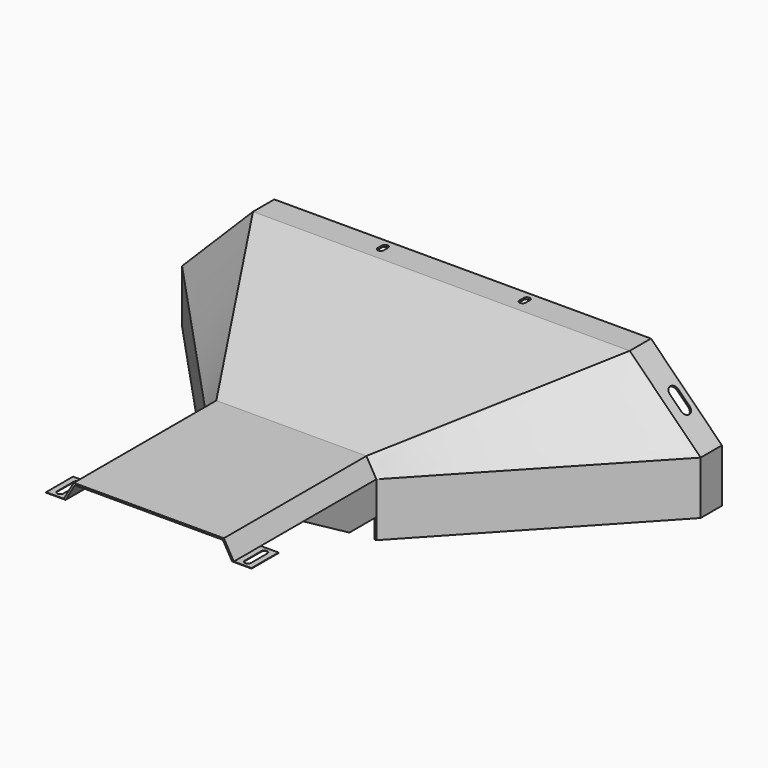
from build123d import *

# Parameters (mm, degrees)
F1_DEPTH  = 201
F4_DEPTH  = 30
F7_DEPTH  = 388.393305
F9_DEPTH  = 20
F11_DEPTH = 20
F13_DEPTH = 60.536898
F15_DEPTH = 60.536898
F17_DEPTH = 140.001
F19_DEPTH = 456.084874
F21_DEPTH = 456.084874


with BuildPart() as f1:
    # F0 (on Front) → F1 (new body)
    with BuildSketch(Plane.XZ):
        Polygon((-83.5, 78), (0, 78), (83.5, 78), (93.892305, 60), (93.892305, 0), (95.892305, 0), (95.892305, 60.535898), (84.654701, 80), (0, 80), (-84.654701, 80), (-95.892305, 60.535898), (-95.892305, 0), (-93.892305, 0), (-93.892305, 60), align=None)
    extrude(amount=-F1_DEPTH)



with BuildPart() as f4:
    # F3 (on offset) → F4 (new body)
    with BuildSketch(Plane.XZ.offset(-412.5)):
        Polygon((212.5, 140), (0, 140), (-212.5, 140), (-292.5, 60), (-292.5, 0), (-290.5, 0), (-290.5, 59.171573), (-211.671573, 138), (0, 138), (211.671573, 138), (290.5, 59.171573), (290.5, 0), (292.5, 0), (292.5, 60), align=None)
    extrude(amount=-F4_DEPTH)


with BuildPart() as f1_1:
    add(f1.part)

    add(f4.part)  # F5 merges F4
    # F4_face (on face) → F5 section 0
    with BuildSketch(Plane(origin=(0, 412.5, 110.440506), x_dir=(1, 0, 0), z_dir=(0, -1, 0))):
        Polygon((211.671573, 27.559494), (290.5, -51.268933), (290.5, -110.440506), (292.5, -110.440506), (292.5, -50.440506), (212.5, 29.559494), (-212.5, 29.559494), (-292.5, -50.440506), (-292.5, -110.440506), (-290.5, -110.440506), (-290.5, -51.268933), (-211.671573, 27.559494), align=None)
    # F1_face (on face) → F5 section 1
    with BuildSketch(Plane(origin=(0, 201, 60.03778), x_dir=(1, 0, 0), z_dir=(0, 1, 0))):
        Polygon((-95.892305, 60.03778), (-95.892305, -0.498118), (-84.654701, -19.96222), (84.654701, -19.96222), (95.892305, -0.498118), (95.892305, 60.03778), (93.892305, 60.03778), (93.892305, 0.03778), (83.5, -17.96222), (-83.5, -17.96222), (-93.892305, 0.03778), (-93.892305, 60.03778), align=None)
    loft()

    # F6 (on face) → F7 (cut, through all)
    with BuildSketch(Plane(origin=(-95.892305, 0, 0), x_dir=(0, -1, 0), z_dir=(-1, 0, 0))):
        Polygon((-163, 23), (-201, 23), (-201, 0), (0, 0), (0, 60), (-38.000001, 59.923097), (-38.000001, 60.535898), (-98, 60.527767), align=None)
    extrude(amount=-F7_DEPTH, mode=Mode.SUBTRACT)

    # F8 (on face) → F9 (join)
    with BuildSketch(Plane(origin=(-95.892305, 0, 0), x_dir=(0, -1, 0), z_dir=(-1, 0, 0))):
        Polygon((0, 60.535898), (-38.000001, 60.535898), (-38.000001, 59.923097), (0, 60), align=None)
    extrude(amount=F9_DEPTH)

    # F10 (on face) → F11 (join)
    with BuildSketch(Plane.YZ.offset(95.892305)):
        Polygon((0, 60.535898), (0, 60), (38.000001, 59.923097), (38.000001, 60.535898), align=None)
    extrude(amount=F11_DEPTH)

    # F12 (on face) → F13 (cut, through all)
    with BuildSketch(Plane.XY.offset(60.535898)):
        with BuildLine():
            ThreePointArc((-102.392305, 30.5), (-105.892305, 34), (-109.392305, 30.5))
            Line((-109.392305, 30.5), (-109.392305, 7.5))
            ThreePointArc((-109.392305, 7.5), (-105.892305, 4), (-102.392305, 7.5))
            Line((-102.392305, 7.5), (-102.392305, 30.5))
        make_face()
    extrude(amount=-F13_DEPTH, mode=Mode.SUBTRACT)

    # F14 (on face) → F15 (cut, through all)
    with BuildSketch(Plane.XY.offset(60.535898)):
        with BuildLine():
            ThreePointArc((109.392305, 30.5), (105.892305, 34), (102.392305, 30.5))
            Line((102.392305, 30.5), (102.392305, 7.5))
            ThreePointArc((102.392305, 7.5), (105.892305, 4), (109.392305, 7.5))
            Line((109.392305, 7.5), (109.392305, 30.5))
        make_face()
    extrude(amount=-F15_DEPTH, mode=Mode.SUBTRACT)

    # F16 (on face) → F17 (cut, through all)
    with BuildSketch(Plane.XY.offset(140)):
        with BuildLine():
            Line((-76.5, 427), (-76.5, 433))
            ThreePointArc((-76.5, 433), (-80, 436.5), (-83.5, 433))
            Line((-83.5, 433), (-83.5, 427))
            ThreePointArc((-83.5, 427), (-80, 423.5), (-76.5, 427))
        make_face()
        with BuildLine():
            Line((83.5, 427), (83.5, 433))
            ThreePointArc((83.5, 433), (80, 436.5), (76.5, 433))
            Line((76.5, 433), (76.5, 427))
            ThreePointArc((76.5, 427), (80, 423.5), (83.5, 427))
        make_face()
    extrude(amount=-F17_DEPTH, mode=Mode.SUBTRACT)

    # F18 (on face) → F19 (cut, through all)
    with BuildSketch(Plane(origin=(-176.25, 0, 176.25), x_dir=(0.707107, 0, 0.707107), z_dir=(-0.707107, 0, 0.707107))):
        with BuildLine():
            Line((-102.265242, 436), (-120.265242, 436))
            ThreePointArc((-120.265242, 436), (-126.265242, 430), (-120.265242, 424))
            Line((-120.265242, 424), (-102.265242, 424))
            ThreePointArc((-102.265242, 424), (-96.265242, 430), (-102.265242, 436))
        make_face()
    extrude(amount=-F19_DEPTH, mode=Mode.SUBTRACT)

    # F20 (on face) → F21 (cut, through all)
    with BuildSketch(Plane(origin=(176.25, 0, 176.25), x_dir=(0.707107, 0, -0.707107), z_dir=(0.707107, 0, 0.707107))):
        with BuildLine():
            ThreePointArc((120.265242, 424), (126.265242, 430), (120.265242, 436))
            Line((120.265242, 436), (102.265242, 436))
            ThreePointArc((102.265242, 436), (96.265242, 430), (102.265242, 424))
            Line((102.265242, 424), (120.265242, 424))
        make_face()
    extrude(amount=-F21_DEPTH, mode=Mode.SUBTRACT)


solid = f1_1.part
